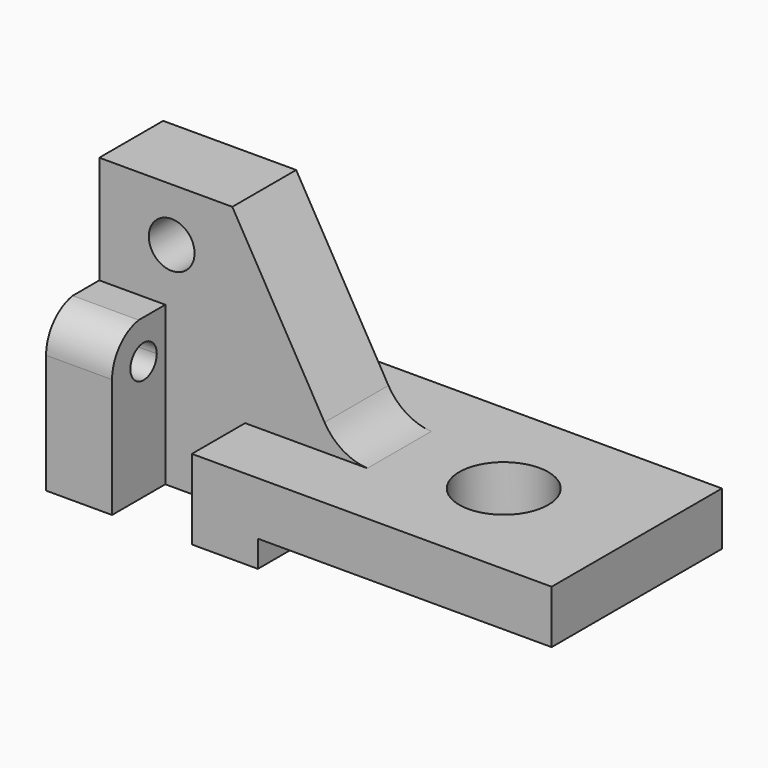
from build123d import *

# Parameters (mm, degrees)
F0_W      = 120.65
F0_H      = 50.8
F1_DEPTH  = 63.5
F2_W      = 70.104
F2_H      = 6.35
F3_DEPTH  = 50.801
F4_DEPTH  = 15.875
F6_DEPTH  = 15.875
F7_R      = 10.6228635498
F8_DEPTH  = 19.051
F9_R      = 5.461
F10_DEPTH = 19.304
F11_W     = 15.875
F11_H     = 16.4665063758
F12_DEPTH = 120.651
F14_DEPTH = 15.748
F16_DEPTH = 15.749


with BuildPart() as f1:
    # F0 (on Top) → F1 (new body)
    with BuildSketch(Plane.XY):
        with Locations((0.3614928573, -7.3499462176)):
            Rectangle(F0_W, F0_H)
    extrude(amount=F1_DEPTH)

    # F2 (on face) → F3 (cut, through all)
    with BuildSketch(Plane.XZ.offset(32.7499462176)):
        with BuildLine():
            ThreePointArc((-6.202439984, 25.3757133524), (-1.8909766077, 20.928804602), (4.0110406024, 19.05))
            Line((4.0110406024, 19.05), (5.5811246857, 19.05))
            Line((5.5811246857, 19.05), (60.6864928573, 19.05))
            Line((60.6864928573, 19.05), (60.6864928573, 63.5))
            Line((60.6864928573, 63.5), (-28.2135071427, 63.5))
            Line((-28.2135071427, 63.5), (-6.202439984, 25.3757133524))
        make_face()
        with Locations((25.6344928573, 3.175)):
            Rectangle(F2_W, F2_H)
    extrude(amount=-F3_DEPTH, mode=Mode.SUBTRACT)

    # F2 (on face) → F4 (cut)
    with BuildSketch(Plane.XZ.offset(32.7499462176)):
        with BuildLine():
            Line((-44.2155071427, 0), (-25.1655071427, 0))
            Line((-25.1655071427, 0), (-25.1655071427, 19.05))
            Line((-25.1655071427, 19.05), (4.0110406024, 19.05))
            ThreePointArc((4.0110406024, 19.05), (-1.8909766077, 20.928804602), (-6.202439984, 25.3757133524))
            Line((-6.202439984, 25.3757133524), (-28.2135071427, 63.5))
            Line((-28.2135071427, 63.5), (-59.9635071427, 63.5))
            Line((-59.9635071427, 63.5), (-59.9635071427, 44.9145063758))
            Line((-59.9635071427, 44.9145063758), (-44.2155071427, 44.9145063758))
            Line((-44.2155071427, 44.9145063758), (-44.2155071427, 28.448))
            Line((-44.2155071427, 28.448), (-44.2155071427, 0))
        make_face()
    extrude(amount=-F4_DEPTH, mode=Mode.SUBTRACT)

    # F5 (on face) → F6 (cut)
    with BuildSketch(Plane(origin=(0, 18.0500537824, 0), x_dir=(-1, 0, 0), z_dir=(0, 1, 0))):
        with BuildLine():
            Line((-4.0110406024, 19.05), (59.9635071427, 19.05))
            Line((59.9635071427, 19.05), (59.9635071427, 63.5))
            Line((59.9635071427, 63.5), (28.2135071427, 63.5))
            Line((28.2135071427, 63.5), (6.202439984, 25.3757133524))
            ThreePointArc((6.202439984, 25.3757133524), (1.8909766077, 20.928804602), (-4.0110406024, 19.05))
        make_face()
    extrude(amount=-F6_DEPTH, mode=Mode.SUBTRACT)

    # F7 (on face) → F8 (cut, through all)
    with BuildSketch(Plane.XY.offset(19.05)):
        with Locations((28.9364928573, -7.3499462176)):
            Circle(F7_R)
    extrude(amount=-F8_DEPTH, mode=Mode.SUBTRACT)

    # F9 (on face) → F10 (cut)
    with BuildSketch(Plane.XZ.offset(16.8749462176)):
        with Locations((-42.6915071427, 50.8)):
            Circle(F9_R)
    extrude(amount=-F10_DEPTH, mode=Mode.SUBTRACT)

    # F11 (on face) → F12 (cut, through all)
    with BuildSketch(Plane(origin=(-59.9635071427, 0, 0), x_dir=(0, -1, 0), z_dir=(-1, 0, 0))):
        with Locations((24.8124462176, 36.6812531879)):
            Rectangle(F11_W, F11_H)
    extrude(amount=-F12_DEPTH, mode=Mode.SUBTRACT)

    # F13 (on face) → F14 (join)
    with BuildSketch(Plane(origin=(-59.9635071427, 0, 0), x_dir=(0, -1, 0), z_dir=(-1, 0, 0))):
        with BuildLine():
            Line((16.8749462176, 28.448), (32.7499462176, 28.448))
            ThreePointArc((32.7499462176, 28.448), (30.4950611894, 34.5552344396), (24.8124462176, 37.7318216134))
            Line((24.8124462176, 37.7318216134), (16.8749462176, 37.7318216134))
            Line((16.8749462176, 37.7318216134), (16.8749462176, 28.448))
        make_face()
    extrude(amount=-F14_DEPTH)

    # F15 (on face) → F16 (cut, through all)
    with BuildSketch(Plane.YZ.offset(-44.2155071427)):
        with BuildLine():
            Line((-23.3519462176, 32.385), (-23.3519462176, 28.448))
            Line((-23.3519462176, 28.448), (-19.4149462176, 28.448))
            ThreePointArc((-19.4149462176, 28.448), (-20.5680668201, 31.2318793975), (-23.3519462176, 32.385))
        make_face()
        with BuildLine():
            Line((-19.4149462176, 28.448), (-23.3519462176, 28.448))
            Line((-23.3519462176, 28.448), (-27.2889462176, 28.448))
            ThreePointArc((-27.2889462176, 28.448), (-23.3519462176, 24.511), (-19.4149462176, 28.448))
        make_face()
        with BuildLine():
            Line((-27.2889462176, 28.448), (-23.3519462176, 28.448))
            Line((-23.3519462176, 28.448), (-23.3519462176, 32.385))
            ThreePointArc((-23.3519462176, 32.385), (-26.1358256151, 31.2318793975), (-27.2889462176, 28.448))
        make_face()
    extrude(amount=-F16_DEPTH, mode=Mode.SUBTRACT)


solid = f1.part
